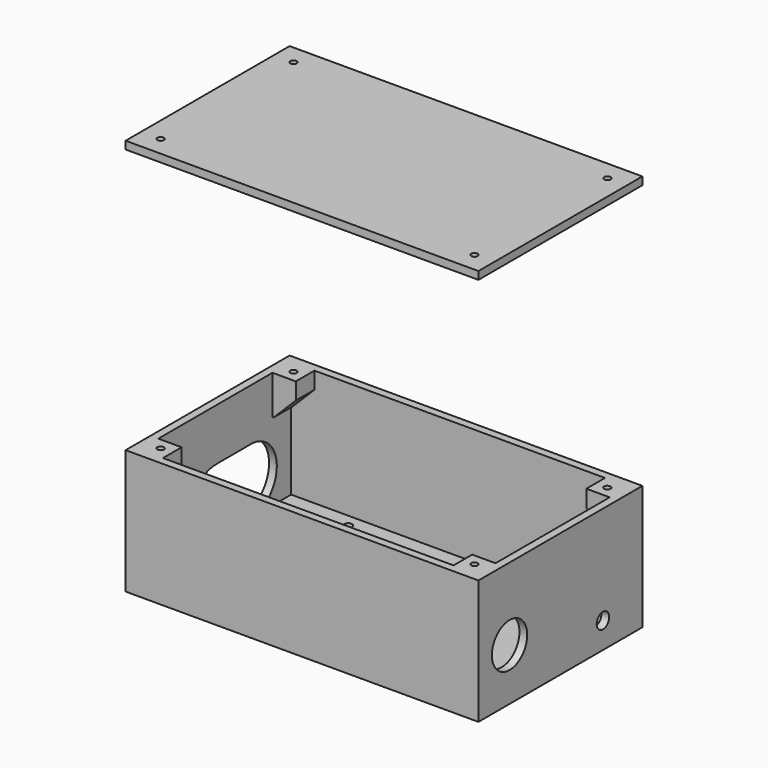
from build123d import *

# Parameters (mm, degrees)
SKETCH001_W     = 136
SKETCH001_H     = 79
PAD_DEPTH       = 3
SKETCH_W        = 136
SKETCH_H        = 79
SKETCH_W_2      = 130
SKETCH_H_2      = 73
PAD001_DEPTH    = 48
SKETCH002_W     = 115
SKETCH002_H     = 3
PAD002_DEPTH    = 30
SKETCH003_R     = 1.5
POCKET_DEPTH    = 48.001
POCKET001_DEPTH = 3
SKETCH006_R     = 8.5
POCKET002_DEPTH = 3
SKETCH007_R     = 3
POCKET003_DEPTH = 3
SKETCH009_R     = 2.5
PAD003_DEPTH    = 1
SKETCH008_R     = 1.25
POCKET004_DEPTH = 5
SKETCH010_W     = 9
SKETCH010_H     = 15
PAD004_DEPTH    = 9
CHAMFER_SIZE    = 8.5
CHAMFER001_SIZE = 8.5
SKETCH011_W     = 9
SKETCH011_H     = 15
PAD005_DEPTH    = 9
CHAMFER002_SIZE = 8.5
CHAMFER003_SIZE = 8.5
SKETCH012_R     = 1.25
HOLE_DEPTH      = 5
HOLE_TIPS_R     = 1.25
FILLET_R        = 2
FILLET010_R     = 2
CHAMFER004_SIZE = 0.9
CHAMFER005_SIZE = 0.9
SKETCH013_W     = 136
SKETCH013_H     = 79
PAD006_DEPTH    = 3
SKETCH014_R     = 1.25
HOLE001_DEPTH   = 3.001


with BuildPart() as obj1:
    # Sketch001 → Pad (new body)
    with BuildSketch(Plane.XY):
        with Locations((68, 39.5)):
            Rectangle(SKETCH001_W, SKETCH001_H)
    extrude(amount=PAD_DEPTH)

    # Sketch → Pad001 (join)
    with BuildSketch(Plane.XY):
        with Locations((68, 39.5)):
            Rectangle(SKETCH_W, SKETCH_H)
        with Locations((68, 39.5)):
            Rectangle(SKETCH_W_2, SKETCH_H_2, mode=Mode.SUBTRACT)
    extrude(amount=PAD001_DEPTH)

    # Sketch002 → Pad002 (join)
    with BuildSketch(Plane.XY):
        with Locations((60.5, 15.5)):
            Rectangle(SKETCH002_W, SKETCH002_H)
    extrude(amount=PAD002_DEPTH)

    # Sketch003 → Pocket (cut, through all)
    with BuildSketch(Plane.XY):
        with Locations((29, 71)):
            Circle(SKETCH003_R)
        with Locations((104.5, 71)):
            Circle(SKETCH003_R)
        with Locations((27, 23)):
            Circle(SKETCH003_R)
        with Locations((106.5, 23)):
            Circle(SKETCH003_R)
    extrude(amount=POCKET_DEPTH, mode=Mode.SUBTRACT)

    # Sketch004 → Pocket001 (cut)
    with BuildSketch(Plane.YZ):
        with BuildLine():
            ThreePointArc((40, 28), (27.5, 15.5), (40, 3))
            Line((40, 3), (56.601632, 3))
            ThreePointArc((56.601632, 3), (69.101632, 15.5), (56.601632, 28))
            Line((40, 28), (56.601632, 28))
        make_face()
    extrude(amount=POCKET001_DEPTH, mode=Mode.SUBTRACT)

    # Sketch006 (on Face9 of Pocket001) → Pocket002 (cut)
    with BuildSketch(Plane.YZ.offset(136)):
        with Locations((15, 20)):
            Circle(SKETCH006_R)
    extrude(amount=-POCKET002_DEPTH, mode=Mode.SUBTRACT)

    # Sketch007 (on Face9 of Pocket002) → Pocket003 (cut)
    with BuildSketch(Plane.YZ.offset(136)):
        with Locations((60, 10)):
            Circle(SKETCH007_R)
    extrude(amount=-POCKET003_DEPTH, mode=Mode.SUBTRACT)

    # Sketch009 (on Face26 of Pocket003) → Pad003 (join)
    with BuildSketch(Plane(origin=(133, 0, 0), x_dir=(0, -1, 0), z_dir=(-1, 0, 0))):
        with Locations((-48, 35)):
            Circle(SKETCH009_R)
        with Locations((-28, 35)):
            Circle(SKETCH009_R)
    extrude(amount=PAD003_DEPTH)

    # Sketch008 (on Face26 of Pocket003) → Pocket004 (cut)
    with BuildSketch(Plane(origin=(133, 0, 0), x_dir=(0, -1, 0), z_dir=(-1, 0, 0))):
        with Locations((-48, 35)):
            Circle(SKETCH008_R)
        with Locations((-28, 35)):
            Circle(SKETCH008_R)
    extrude(amount=POCKET004_DEPTH, mode=Mode.SUBTRACT)

    # Sketch010 → Pad004 (join)
    with BuildSketch(Plane.XZ.offset(-76)):
        with Locations((7.5, 40.5)):
            Rectangle(SKETCH010_W, SKETCH010_H)
        with Locations((128.5, 40.5)):
            Rectangle(SKETCH010_W, SKETCH010_H)
    extrude(amount=PAD004_DEPTH)

    # Chamfer
    chamfer_edges = [obj1.edges().sort_by_distance(p)[0] for p in [
        (12, 71.5, 33),
    ]]
    chamfer(chamfer_edges, length=CHAMFER_SIZE)

    # Chamfer001
    chamfer001_edges = [obj1.edges().sort_by_distance(p)[0] for p in [
        (124, 71.5, 33),
    ]]
    chamfer(chamfer001_edges, length=CHAMFER001_SIZE)

    # Sketch011 (on Face19 of Chamfer001) → Pad005 (join)
    with BuildSketch(Plane(origin=(0, 3, 0), x_dir=(-1, 0, 0), z_dir=(0, 1, 0))):
        with Locations((-128.5, 40.5)):
            Rectangle(SKETCH011_W, SKETCH011_H)
        with Locations((-7.5, 40.5)):
            Rectangle(SKETCH011_W, SKETCH011_H)
    extrude(amount=PAD005_DEPTH)

    # Chamfer002
    chamfer002_edges = [obj1.edges().sort_by_distance(p)[0] for p in [
        (124, 7.5, 33),
    ]]
    chamfer(chamfer002_edges, length=CHAMFER002_SIZE)

    # Chamfer003
    chamfer003_edges = [obj1.edges().sort_by_distance(p)[0] for p in [
        (12, 7.5, 33),
    ]]
    chamfer(chamfer003_edges, length=CHAMFER003_SIZE)

    # Sketch012 (on Face19 of Chamfer003) → Hole (cut)
    with BuildSketch(Plane.XY.offset(48)):
        with Locations((7.5, 71.5)):
            Circle(SKETCH012_R)
        with Locations((128.5, 71.5)):
            Circle(SKETCH012_R)
        with Locations((128.5, 7.5)):
            Circle(SKETCH012_R)
        with Locations((7.5, 7.5)):
            Circle(SKETCH012_R)
    extrude(amount=-HOLE_DEPTH, mode=Mode.SUBTRACT)

    # Hole tips → Hole tip 1 section 0
    with BuildSketch(Plane.XY.offset(43), mode=Mode.PRIVATE) as hole_tip_1_s0:
        with Locations((7.5, 71.5)):
            Circle(HOLE_TIPS_R)
    loft([hole_tip_1_s0.sketch, Vertex(7.5, 71.5, 42.248924)], mode=Mode.SUBTRACT)

    # Hole tips → Hole tip 2 section 0
    with BuildSketch(Plane.XY.offset(43), mode=Mode.PRIVATE) as hole_tip_2_s0:
        with Locations((128.5, 71.5)):
            Circle(HOLE_TIPS_R)
    loft([hole_tip_2_s0.sketch, Vertex(128.5, 71.5, 42.248924)], mode=Mode.SUBTRACT)

    # Hole tips → Hole tip 3 section 0
    with BuildSketch(Plane.XY.offset(43), mode=Mode.PRIVATE) as hole_tip_3_s0:
        with Locations((128.5, 7.5)):
            Circle(HOLE_TIPS_R)
    loft([hole_tip_3_s0.sketch, Vertex(128.5, 7.5, 42.248924)], mode=Mode.SUBTRACT)

    # Hole tips → Hole tip 4 section 0
    with BuildSketch(Plane.XY.offset(43), mode=Mode.PRIVATE) as hole_tip_4_s0:
        with Locations((7.5, 7.5)):
            Circle(HOLE_TIPS_R)
    loft([hole_tip_4_s0.sketch, Vertex(7.5, 7.5, 42.248924)], mode=Mode.SUBTRACT)

    # Fillet
    fillet_edges = [obj1.edges().sort_by_distance(p)[0] for p in [
        (60.5, 17, 3),
    ]]
    fillet(fillet_edges, radius=FILLET_R)

    # Fillet010
    fillet010_edges = [obj1.edges().sort_by_distance(p)[0] for p in [
        (60.5, 14, 3),
    ]]
    fillet(fillet010_edges, radius=FILLET010_R)

    # Chamfer004
    chamfer004_edges = [obj1.edges().sort_by_distance(p)[0] for p in [
        (132, 50.5, 35),
    ]]
    chamfer(chamfer004_edges, length=CHAMFER004_SIZE)

    # Chamfer005
    chamfer005_edges = [obj1.edges().sort_by_distance(p)[0] for p in [
        (132, 30.5, 35),
    ]]
    chamfer(chamfer005_edges, length=CHAMFER005_SIZE)


with BuildPart() as couvercle:
    # Sketch013 → Pad006 (new body)
    with BuildSketch(Plane.XY):
        with Locations((68, 39.5)):
            Rectangle(SKETCH013_W, SKETCH013_H)
    extrude(amount=PAD006_DEPTH)

    # Sketch014 (on Face6 of Pad006) → Hole001 (cut, through all)
    with BuildSketch(Plane.XY.offset(3)):
        with Locations((7.5, 71.5)):
            Circle(SKETCH014_R)
        with Locations((128.5, 71.5)):
            Circle(SKETCH014_R)
        with Locations((7.5, 7.5)):
            Circle(SKETCH014_R)
        with Locations((128.5, 7.5)):
            Circle(SKETCH014_R)
    extrude(amount=-HOLE001_DEPTH, mode=Mode.SUBTRACT)


with BuildPart() as couvercle_1:
    # Body placement: moved
    add(couvercle.part.moved(Location((0, 0, 150))))


solid = Compound([obj1.part, couvercle_1.part])
